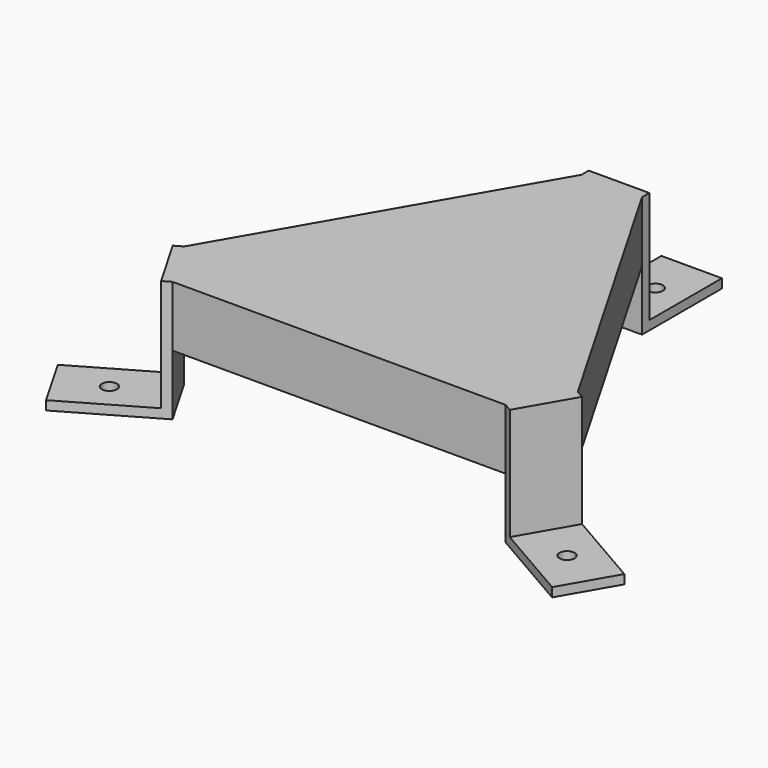
from build123d import *

# Parameters (mm, degrees)
F1_DEPTH  = 20
F3_DEPTH  = 20.001
F4_W      = 20
F4_H      = 20
F5_DEPTH  = 3
F6_W      = 20
F6_H      = 3
F7_DEPTH  = 30
F8_R      = 2.5
F9_DEPTH  = 3.001
F10_W     = 20
F10_H     = 20
F11_DEPTH = 3
F12_W     = 20
F12_H     = 3
F13_DEPTH = 30
F14_R     = 2.5
F15_DEPTH = 3.001
F16_W     = 20
F16_H     = 20
F17_DEPTH = 3
F18_W     = 20
F18_H     = 3
F19_DEPTH = 30
F20_R     = 2.5
F21_DEPTH = 3.001


with BuildPart() as f1:
    # F0 (on Top) → F1 (new body)
    with BuildSketch(Plane.XY):
        Polygon((0, 0), (150, 0), (75, 129.9038105677), align=None)
    extrude(amount=F1_DEPTH)

    # F2 (on face) → F3 (cut, through all)
    with BuildSketch(Plane.XY.offset(20)):
        Polygon((75, 129.9038105677), (65, 112.583302492), (85, 112.583302492), align=None)
        Polygon((20, 0), (10, 17.3205080757), (0, 0), align=None)
        Polygon((140, 17.3205080757), (130, 0), (150, 0), align=None)
    extrude(amount=-F3_DEPTH, mode=Mode.SUBTRACT)

    # F4 (on face) → F5 (join)
    with BuildSketch(Plane(origin=(97.5, -56.291651246, 0), x_dir=(0.5, 0.8660254038, 0), z_dir=(0.8660254038, -0.5, 0))):
        with Locations((75, -10)):
            Rectangle(F4_W, F4_H)
        with Locations((75, 10)):
            Rectangle(F4_W, F4_H)
    extrude(amount=F5_DEPTH)

    # F6 (on face) → F7 (join)
    with BuildSketch(Plane(origin=(100.0980762114, -57.791651246, 0), x_dir=(0.5, 0.8660254038, 0), z_dir=(0.8660254038, -0.5, 0))):
        with Locations((75, -18.5)):
            Rectangle(F6_W, F6_H)
    extrude(amount=F7_DEPTH)

    # F8 (on face) → F9 (cut, through all)
    with BuildSketch(Plane.XY.offset(-17)):
        with Locations((150.5884572681, -0.3397459622)):
            Circle(F8_R)
    extrude(amount=-F9_DEPTH, mode=Mode.SUBTRACT)

    # F10 (on face) → F11 (join)
    with BuildSketch(Plane(origin=(0, 112.583302492, 0), x_dir=(-1, 0, 0), z_dir=(0, 1, 0))):
        with Locations((-75, 10)):
            Rectangle(F10_W, F10_H)
        with Locations((-75, -10)):
            Rectangle(F10_W, F10_H)
    extrude(amount=F11_DEPTH)

    # F12 (on face) → F13 (join)
    with BuildSketch(Plane(origin=(0, 115.583302492, 0), x_dir=(-1, 0, 0), z_dir=(0, 1, 0))):
        with Locations((-75, -18.5)):
            Rectangle(F12_W, F12_H)
    extrude(amount=F13_DEPTH)

    # F14 (on face) → F15 (cut, through all)
    with BuildSketch(Plane.XY.offset(-17)):
        with Locations((75, 130.583302492)):
            Circle(F14_R)
    extrude(amount=-F15_DEPTH, mode=Mode.SUBTRACT)

    # F16 (on face) → F17 (join)
    with BuildSketch(Plane(origin=(15, 8.6602540378, 0), x_dir=(0.5, -0.8660254038, 0), z_dir=(-0.8660254038, -0.5, 0))):
        with Locations((0, -10)):
            Rectangle(F16_W, F16_H)
        with Locations((0, 10)):
            Rectangle(F16_W, F16_H)
    extrude(amount=F17_DEPTH)

    # F18 (on face) → F19 (join)
    with BuildSketch(Plane(origin=(12.4019237886, 7.1602540378, 0), x_dir=(0.5, -0.8660254038, 0), z_dir=(-0.8660254038, -0.5, 0))):
        with Locations((0, -18.5)):
            Rectangle(F18_W, F18_H)
    extrude(amount=F19_DEPTH)

    # F20 (on face) → F21 (cut, through all)
    with BuildSketch(Plane.XY.offset(-17)):
        with Locations((-0.5884572681, -0.3397459622)):
            Circle(F20_R)
    extrude(amount=-F21_DEPTH, mode=Mode.SUBTRACT)


solid = f1.part
